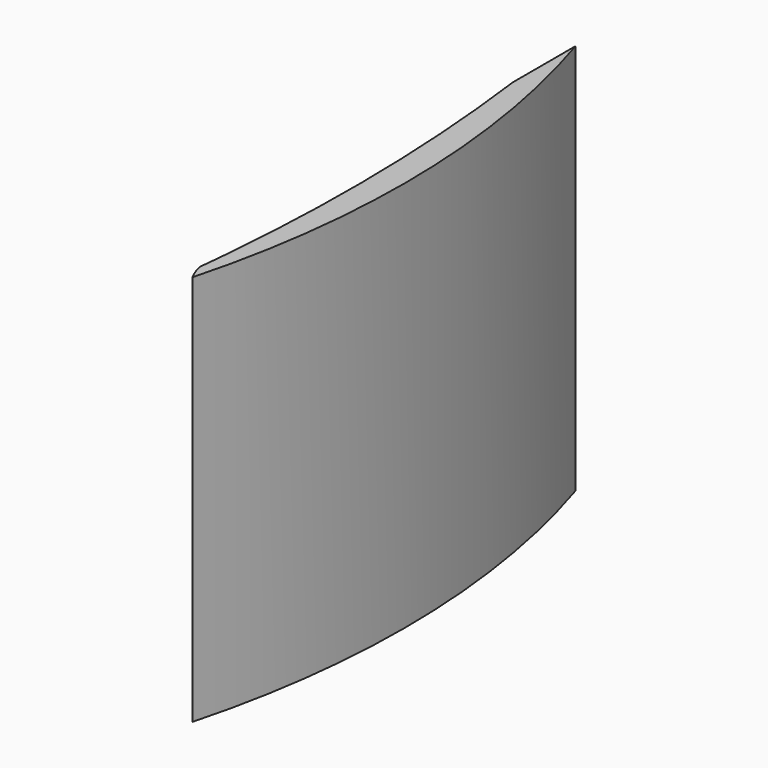
from build123d import *

# Parameters (mm, degrees)
F0_W     = 5
F0_H     = 54
F1_DEPTH = 40
F3_DEPTH = 40
F4_DEPTH = 40
F5_DEPTH = 40


with BuildPart() as f1:
    # F0 (on Top) → F1 (new body)
    with BuildSketch(Plane.XY):
        Rectangle(F0_W, F0_H)
    extrude(amount=F1_DEPTH)

    # F2 (on face) → F3 (cut)
    with BuildSketch(Plane.XY.offset(40)):
        with BuildLine():
            ThreePointArc((-1.750376, -18.09707), (-1.121, 0.471757), (-2.5, 19))
            Line((-2.5, 19), (-2.5, -25))
            ThreePointArc((-2.5, -25), (-2.281968, -23.239421), (-2.082123, -21.476685))
            ThreePointArc((-2.082123, -21.476685), (-2.160412, -19.76291), (-1.750376, -18.09707))
        make_face()
    extrude(amount=-F3_DEPTH, mode=Mode.SUBTRACT)

    # F2 (on face) → F4 (join)
    with BuildSketch(Plane.XY.offset(40)):
        with BuildLine():
            ThreePointArc((-1.415606, -23.295218), (1.646941, 1.930112), (-2.5, 27))
            Line((-2.5, 27), (-2.5, 19))
            ThreePointArc((-2.5, 19), (-1.121, 0.471757), (-1.750376, -18.09707))
            ThreePointArc((-1.750376, -18.09707), (-1.907901, -19.787697), (-2.082123, -21.476685))
            ThreePointArc((-2.082123, -21.476685), (-1.82275, -22.413031), (-1.415606, -23.295218))
        make_face()
    extrude(amount=F4_DEPTH)

    # F1_face (on face) → F5 (cut)
    with BuildSketch(Plane.XY.offset(40)):
        with BuildLine():
            Line((2.5, 27), (2.5, -27))
            Line((2.5, -27), (-2.5, -27))
            Line((-2.5, -27), (-2.5, -25))
            ThreePointArc((-2.5, -25), (-2.281968, -23.239421), (-2.082123, -21.476685))
            ThreePointArc((-2.082123, -21.476685), (-2.160412, -19.76291), (-1.750376, -18.09707))
            ThreePointArc((-1.750376, -18.09707), (-1.121, 0.471757), (-2.5, 19))
            Line((-2.5, 19), (-2.5, 27))
            Line((-2.5, 27), (2.5, 27))
        make_face()
    extrude(amount=-F5_DEPTH, mode=Mode.SUBTRACT)


solid = f1.part
